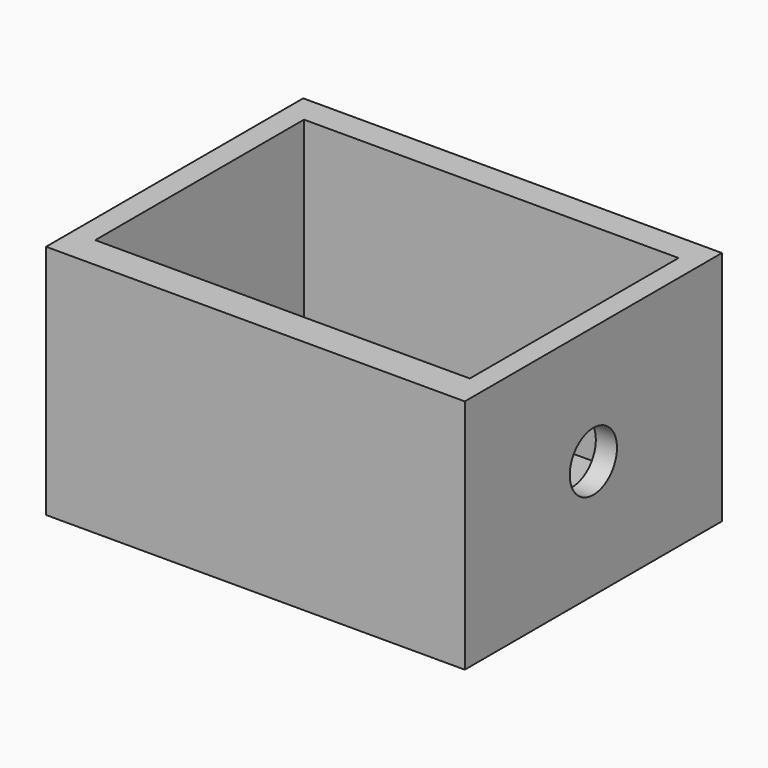
from build123d import *

# Parameters (mm, degrees)
F0_W     = 180.109705776
F0_H     = 138.2466368377
F1_DEPTH = 101.6
F2_W     = 161.1165106297
F2_H     = 112.253382802
F3_DEPTH = 88.9
F4_R     = 12.7
F5_DEPTH = 9.0965814888


with BuildPart() as f1:
    # F0 (on Top) → F1 (new body)
    with BuildSketch(Plane.XY):
        with Locations((-28.1288344413, 0.5972143263)):
            Rectangle(F0_W, F0_H)
    extrude(amount=F1_DEPTH)

    # F2 (on face) → F3 (cut)
    with BuildSketch(Plane.XY.offset(101.6)):
        with Locations((-27.728818357, 1.6608275473)):
            Rectangle(F2_W, F2_H)
    extrude(amount=-F3_DEPTH, mode=Mode.SUBTRACT)

    # F4 (on face) → F5 (cut, through all)
    with BuildSketch(Plane.YZ.offset(61.9260184467)):
        with Locations((0.5972143263, 50.8)):
            Circle(F4_R)
    extrude(amount=-F5_DEPTH, mode=Mode.SUBTRACT)


solid = f1.part
